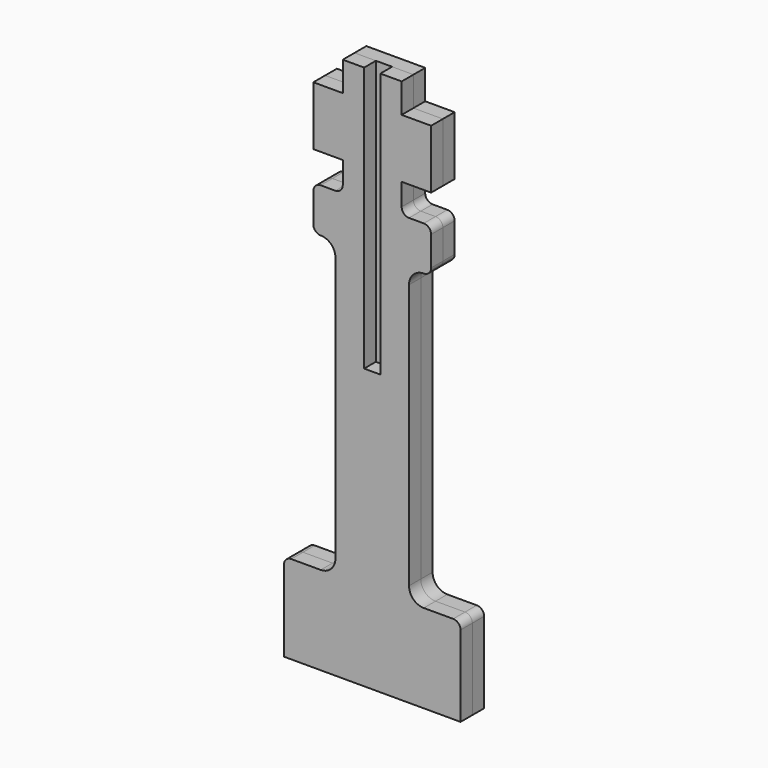
from build123d import *

# Parameters (mm, degrees)
F0_W     = 14.5
F0_H     = 20
F0_W_2   = 11
F0_W_3   = 20
F0_H_2   = 40
F0_H_3   = 120
F1_DEPTH = 10
F0_H_4   = 190
F2_DEPTH = 10


with BuildPart() as f1:
    # F0 (on Front) → F1 (new body)
    with BuildSketch(Plane.XZ):
        with Locations((-12.75, 330)):
            Rectangle(F0_W, F0_H)
        with Locations((0, 330)):
            Rectangle(F0_W_2, F0_H)
        with Locations((12.75, 330)):
            Rectangle(F0_W, F0_H)
        with Locations((30, 300)):
            Rectangle(F0_W_3, F0_H_2)
        with Locations((12.75, 300)):
            Rectangle(F0_W, F0_H_2)
        with Locations((0, 300)):
            Rectangle(F0_W_2, F0_H_2)
        with Locations((-12.75, 300)):
            Rectangle(F0_W, F0_H_2)
        with Locations((-30, 300)):
            Rectangle(F0_W_3, F0_H_2)
        with BuildLine():
            Line((-60, -30), (-5.5, -30))
            Line((-5.5, -30), (-5.5, 160))
            Line((-5.5, 160), (-5.5, 280))
            Line((-5.5, 280), (-20, 280))
            Line((-20, 280), (-20, 265))
            ThreePointArc((-20, 265), (-21.4644660941, 261.4644660941), (-25, 260))
            Line((-25, 260), (-35, 260))
            ThreePointArc((-35, 260), (-38.5355339059, 258.5355339059), (-40, 255))
            Line((-40, 255), (-40, 235))
            ThreePointArc((-40, 235), (-38.5355339059, 231.4644660941), (-35, 230))
            ThreePointArc((-35, 230), (-27.9289321881, 227.0710678119), (-25, 220))
            Line((-25, 220), (-25, 40))
            ThreePointArc((-25, 40), (-27.9289321881, 32.9289321881), (-35, 30))
            Line((-35, 30), (-55, 30))
            ThreePointArc((-55, 30), (-58.5355339059, 28.5355339059), (-60, 25))
            Line((-60, 25), (-60, -30))
        make_face()
        with Locations((0, 220)):
            Rectangle(F0_W_2, F0_H_3)
        with BuildLine():
            Line((5.5, -30), (60, -30))
            Line((60, -30), (60, 25))
            ThreePointArc((60, 25), (58.5355339059, 28.5355339059), (55, 30))
            Line((55, 30), (35, 30))
            ThreePointArc((35, 30), (27.9289321881, 32.9289321881), (25, 40))
            Line((25, 40), (25, 220))
            ThreePointArc((25, 220), (27.9289321881, 227.0710678119), (35, 230))
            ThreePointArc((35, 230), (38.5355339059, 231.4644660941), (40, 235))
            Line((40, 235), (40, 255))
            ThreePointArc((40, 255), (38.5355339059, 258.5355339059), (35, 260))
            Line((35, 260), (25, 260))
            ThreePointArc((25, 260), (21.4644660941, 261.4644660941), (20, 265))
            Line((20, 265), (20, 280))
            Line((20, 280), (5.5, 280))
            Line((5.5, 280), (5.5, 160))
            Line((5.5, 160), (5.5, -30))
        make_face()
    extrude(amount=-F1_DEPTH)


with BuildPart() as f2:
    # F0 (on Front) → F2 (new body)
    with BuildSketch(Plane.XZ):
        with Locations((-12.75, 330)):
            Rectangle(F0_W, F0_H)
        with Locations((-12.75, 300)):
            Rectangle(F0_W, F0_H_2)
        with Locations((-30, 300)):
            Rectangle(F0_W_3, F0_H_2)
        with BuildLine():
            Line((-60, -30), (-5.5, -30))
            Line((-5.5, -30), (-5.5, 160))
            Line((-5.5, 160), (-5.5, 280))
            Line((-5.5, 280), (-20, 280))
            Line((-20, 280), (-20, 265))
            ThreePointArc((-20, 265), (-21.4644660941, 261.4644660941), (-25, 260))
            Line((-25, 260), (-35, 260))
            ThreePointArc((-35, 260), (-38.5355339059, 258.5355339059), (-40, 255))
            Line((-40, 255), (-40, 235))
            ThreePointArc((-40, 235), (-38.5355339059, 231.4644660941), (-35, 230))
            ThreePointArc((-35, 230), (-27.9289321881, 227.0710678119), (-25, 220))
            Line((-25, 220), (-25, 40))
            ThreePointArc((-25, 40), (-27.9289321881, 32.9289321881), (-35, 30))
            Line((-35, 30), (-55, 30))
            ThreePointArc((-55, 30), (-58.5355339059, 28.5355339059), (-60, 25))
            Line((-60, 25), (-60, -30))
        make_face()
        with Locations((0, 65)):
            Rectangle(F0_W_2, F0_H_4)
        with BuildLine():
            Line((5.5, -30), (60, -30))
            Line((60, -30), (60, 25))
            ThreePointArc((60, 25), (58.5355339059, 28.5355339059), (55, 30))
            Line((55, 30), (35, 30))
            ThreePointArc((35, 30), (27.9289321881, 32.9289321881), (25, 40))
            Line((25, 40), (25, 220))
            ThreePointArc((25, 220), (27.9289321881, 227.0710678119), (35, 230))
            ThreePointArc((35, 230), (38.5355339059, 231.4644660941), (40, 235))
            Line((40, 235), (40, 255))
            ThreePointArc((40, 255), (38.5355339059, 258.5355339059), (35, 260))
            Line((35, 260), (25, 260))
            ThreePointArc((25, 260), (21.4644660941, 261.4644660941), (20, 265))
            Line((20, 265), (20, 280))
            Line((20, 280), (5.5, 280))
            Line((5.5, 280), (5.5, 160))
            Line((5.5, 160), (5.5, -30))
        make_face()
        with Locations((12.75, 300)):
            Rectangle(F0_W, F0_H_2)
        with Locations((12.75, 330)):
            Rectangle(F0_W, F0_H)
        with Locations((30, 300)):
            Rectangle(F0_W_3, F0_H_2)
    extrude(amount=F2_DEPTH)


solid = Compound([f1.part, f2.part])
